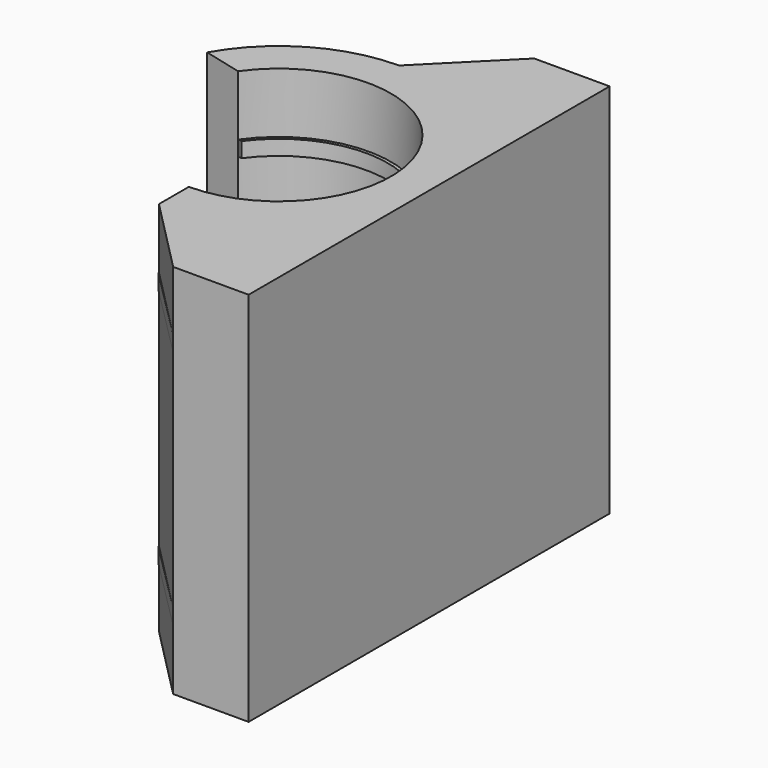
from build123d import *

# Parameters (mm, degrees)
PAD003_DEPTH = 1
PAD004_DEPTH = 1
PAD_DEPTH    = 25


with BuildPart() as pad003:
    # Sketch001 → Pad003 (new body)
    with BuildSketch(Plane.XY.offset(32)):
        with BuildLine():
            Line((-5.8767, 4.245809), (-8.700179, 4.930201))
            ThreePointArc((0, 10), (-5.034779, 8.640081), (-8.700179, 4.930201))
            Line((0, 10), (4.98503, 15))
            Line((10, 15), (4.98503, 15))
            Line((10, -15), (10, 15))
            Line((4.98503, -15), (10, -15))
            Line((0, -10), (4.98503, -15))
            Line((0, -7.25), (0, -10))
            ThreePointArc((0, -7.25), (6.455409, 3.300029), (-5.8767, 4.245809))
        make_face()
    extrude(amount=PAD003_DEPTH)


with BuildPart() as pad004:
    # Sketch002 → Pad004 (new body)
    with BuildSketch(Plane.XY.offset(48)):
        with BuildLine():
            Line((-5.8767, 4.245809), (-8.700179, 4.930201))
            ThreePointArc((0, 10), (-5.034779, 8.640081), (-8.700179, 4.930201))
            Line((0, 10), (4.98503, 15))
            Line((10, 15), (4.98503, 15))
            Line((10, -15), (10, 15))
            Line((4.98503, -15), (10, -15))
            Line((0, -10), (4.98503, -15))
            Line((0, -7.25), (0, -10))
            ThreePointArc((0, -7.25), (6.455409, 3.300029), (-5.8767, 4.245809))
        make_face()
    extrude(amount=PAD004_DEPTH)


with BuildPart() as obj1:
    # Sketch → Pad (new body)
    with BuildSketch(Plane.XY.offset(28)):
        with BuildLine():
            Line((-6.124049, 4.274369), (-8.700179, 4.930201))
            ThreePointArc((0, 10), (-5.034779, 8.640081), (-8.700179, 4.930201))
            Line((0, 10), (4.98503, 15))
            Line((10, 15), (4.98503, 15))
            Line((10, -15), (10, 15))
            Line((4.98503, -15), (10, -15))
            Line((0, -9.952784), (4.98503, -15))
            Line((0, -7.468213), (0, -9.952784))
            ThreePointArc((0, -7.468213), (6.621786, 3.453426), (-6.124049, 4.274369))
        make_face()
    extrude(amount=PAD_DEPTH)

    # Fusion: union Pad003, Pad004
    add(pad003.part)
    add(pad004.part)


solid = obj1.part
